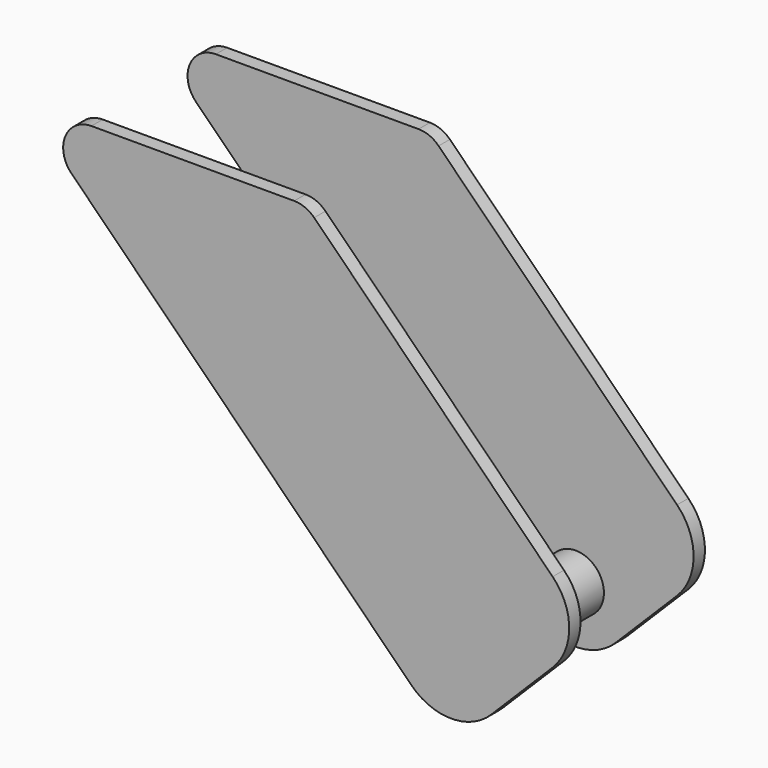
from build123d import *

# Parameters (mm, degrees)
F2_DEPTH = 5
F3_R     = 10
F4_DEPTH = 25


with BuildPart() as f2:
    # F1 (on offset) → F2 (new body)
    with BuildSketch(Plane.XZ.offset(25)):
        with BuildLine():
            Line((-4.142136, 50), (-75.857864, 50))
            ThreePointArc((-75.857864, 50), (-85.09666, 43.826834), (-82.928932, 32.928932))
            Line((-82.928932, 32.928932), (37.279221, -87.279221))
            ThreePointArc((37.279221, -87.279221), (51.421356, -93.137085), (65.563492, -87.279221))
            Line((65.563492, -87.279221), (87.279221, -65.563492))
            ThreePointArc((87.279221, -65.563492), (93.137085, -51.421356), (87.279221, -37.279221))
            Line((87.279221, -37.279221), (2.928932, 47.071068))
            ThreePointArc((2.928932, 47.071068), (-0.315301, 49.238795), (-4.142136, 50))
        make_face()
    extrude(amount=F2_DEPTH)

    # F3 (on face) → F4 (join)
    with BuildSketch(Plane(origin=(0, -25, 0), x_dir=(-1, 0, 0), z_dir=(0, 1, 0))):
        with Locations((-51.421356, -73.137085)):
            Circle(F3_R)
    extrude(amount=F4_DEPTH)

    # F5: F2 across plane


with BuildPart() as f2_1:
    add(f2.part)
    add(f2.part.mirror(Plane.XZ))


solid = f2_1.part
